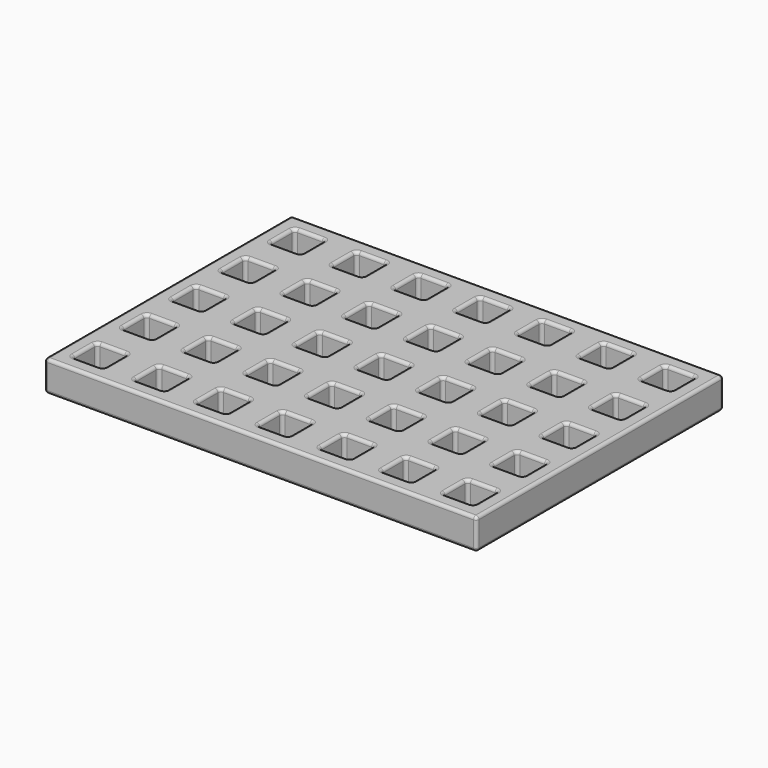
from build123d import *

# Parameters (mm, degrees)
F0_W     = 177.8
F0_H     = 127
F1_DEPTH = 12.7
F2_W     = 12.7
F2_H     = 12.7
F3_DEPTH = 25.4
F4_R     = 1.27


with BuildPart() as f1:
    # F0 (on Top) → F1 (new body)
    with BuildSketch(Plane.XY):
        Rectangle(F0_W, F0_H)
    extrude(amount=F1_DEPTH)

    # F2 (on face) → F3 (cut)
    with BuildSketch(Plane.XY.offset(12.7)):
        with Locations((-76.2, 50.8)):
            Rectangle(F2_W, F2_H)
        with Locations((-76.2, 25.4)):
            Rectangle(F2_W, F2_H)
        with Locations((-76.2, 0)):
            Rectangle(F2_W, F2_H)
        with Locations((-76.2, -25.4)):
            Rectangle(F2_W, F2_H)
        with Locations((-76.2, -50.8)):
            Rectangle(F2_W, F2_H)
        with Locations((-50.8, 50.8)):
            Rectangle(F2_W, F2_H)
        with Locations((-50.8, 25.4)):
            Rectangle(F2_W, F2_H)
        with Locations((-50.8, 0)):
            Rectangle(F2_W, F2_H)
        with Locations((-50.8, -25.4)):
            Rectangle(F2_W, F2_H)
        with Locations((-50.8, -50.8)):
            Rectangle(F2_W, F2_H)
        with Locations((-25.4, 50.8)):
            Rectangle(F2_W, F2_H)
        with Locations((-25.4, 25.4)):
            Rectangle(F2_W, F2_H)
        with Locations((-25.4, 0)):
            Rectangle(F2_W, F2_H)
        with Locations((-25.4, -25.4)):
            Rectangle(F2_W, F2_H)
        with Locations((-25.4, -50.8)):
            Rectangle(F2_W, F2_H)
        with Locations((0, 50.8)):
            Rectangle(F2_W, F2_H)
        with Locations((0, 25.4)):
            Rectangle(F2_W, F2_H)
        Rectangle(F2_W, F2_H)
        with Locations((0, -25.4)):
            Rectangle(F2_W, F2_H)
        with Locations((0, -50.8)):
            Rectangle(F2_W, F2_H)
        with Locations((25.4, 50.8)):
            Rectangle(F2_W, F2_H)
        with Locations((25.4, 25.4)):
            Rectangle(F2_W, F2_H)
        with Locations((25.4, 0)):
            Rectangle(F2_W, F2_H)
        with Locations((25.4, -25.4)):
            Rectangle(F2_W, F2_H)
        with Locations((25.4, -50.8)):
            Rectangle(F2_W, F2_H)
        with Locations((50.8, 50.8)):
            Rectangle(F2_W, F2_H)
        with Locations((50.8, 25.4)):
            Rectangle(F2_W, F2_H)
        with Locations((50.8, 0)):
            Rectangle(F2_W, F2_H)
        with Locations((50.8, -25.4)):
            Rectangle(F2_W, F2_H)
        with Locations((50.8, -50.8)):
            Rectangle(F2_W, F2_H)
        with Locations((76.2, 50.8)):
            Rectangle(F2_W, F2_H)
        with Locations((76.2, 25.4)):
            Rectangle(F2_W, F2_H)
        with Locations((76.2, 0)):
            Rectangle(F2_W, F2_H)
        with Locations((76.2, -25.4)):
            Rectangle(F2_W, F2_H)
        with Locations((76.2, -50.8)):
            Rectangle(F2_W, F2_H)
    extrude(amount=-F3_DEPTH, mode=Mode.SUBTRACT)

    # F4
    f4_edges = [f1.edges().sort_by_distance(p)[0] for p in [
        (57.15, -50.8, 12.7),
        (57.15, 50.8, 12.7),
        (44.45, -25.4, 12.7),
        (44.45, -31.75, 6.35),
        (44.45, -25.4, 0),
        (44.45, -19.05, 6.35),
        (-82.55, -50.8, 12.7),
        (-82.55, -57.15, 6.35),
        (-82.55, -50.8, 0),
        (-82.55, -44.45, 6.35),
        (76.2, -44.45, 12.7),
        (69.85, -44.45, 6.35),
        (76.2, -44.45, 0),
        (82.55, -44.45, 6.35),
        (76.2, 57.15, 12.7),
        (69.85, 57.15, 6.35),
        (76.2, 57.15, 0),
        (82.55, 57.15, 6.35),
        (0, -19.05, 12.7),
        (-6.35, -19.05, 6.35),
        (0, -19.05, 0),
        (6.35, -19.05, 6.35),
        (-25.4, -44.45, 12.7),
        (-31.75, -44.45, 6.35),
        (-25.4, -44.45, 0),
        (-19.05, -44.45, 6.35),
        (-76.2, -31.75, 12.7),
        (-82.55, 0, 12.7),
        (-6.35, -25.4, 12.7),
        (-31.75, -50.8, 12.7),
        (69.85, -50.8, 12.7),
        (69.85, 50.8, 12.7),
        (-57.15, -50.8, 12.7),
        (-57.15, -57.15, 6.35),
        (-57.15, -50.8, 0),
        (-57.15, -44.45, 6.35),
        (-31.75, -25.4, 12.7),
        (-31.75, -31.75, 6.35),
        (-31.75, -25.4, 0),
        (-31.75, -19.05, 6.35),
        (69.85, -25.4, 12.7),
        (69.85, -31.75, 6.35),
        (69.85, -25.4, 0),
        (69.85, -19.05, 6.35),
        (44.45, -50.8, 12.7),
        (44.45, -57.15, 6.35),
        (44.45, -50.8, 0),
        (44.45, -44.45, 6.35),
        (0, -57.15, 12.7),
        (-50.8, -6.35, 12.7),
        (76.2, 19.05, 12.7),
        (50.8, -6.35, 12.7),
        (-25.4, -57.15, 12.7),
        (-19.05, -57.15, 6.35),
        (-25.4, -57.15, 0),
        (-31.75, -57.15, 6.35),
        (76.2, -57.15, 12.7),
        (82.55, -57.15, 6.35),
        (76.2, -57.15, 0),
        (69.85, -57.15, 6.35),
        (76.2, 44.45, 12.7),
        (82.55, 44.45, 6.35),
        (76.2, 44.45, 0),
        (69.85, 44.45, 6.35),
        (-82.55, -25.4, 12.7),
        (-6.35, -50.8, 12.7),
        (69.85, 25.4, 12.7),
        (-6.35, -31.75, 6.35),
        (-6.35, -25.4, 0),
        (-31.75, -50.8, 0),
        (69.85, -50.8, 0),
        (69.85, 50.8, 0),
        (-19.05, -50.8, 12.7),
        (-19.05, -50.8, 0),
        (82.55, 50.8, 12.7),
        (82.55, 50.8, 0),
        (82.55, -50.8, 12.7),
        (82.55, -50.8, 0),
        (-76.2, -44.45, 12.7),
        (25.4, -44.45, 12.7),
        (25.4, -19.05, 12.7),
        (19.05, -19.05, 6.35),
        (25.4, -19.05, 0),
        (31.75, -19.05, 6.35),
        (0, -44.45, 12.7),
        (-6.35, -44.45, 6.35),
        (0, -44.45, 0),
        (6.35, -44.45, 6.35),
        (88.9, 0, 0),
        (0, -63.5, 0),
        (0, 63.5, 0),
        (-88.9, 0, 0),
        (-76.2, -44.45, 0),
        (-76.2, -57.15, 0),
        (-69.85, -50.8, 0),
        (-50.8, -44.45, 0),
        (-50.8, -57.15, 0),
        (-44.45, -50.8, 0),
        (-76.2, -19.05, 0),
        (-82.55, -25.4, 0),
        (-76.2, -31.75, 0),
        (-69.85, -25.4, 0),
        (-50.8, -19.05, 0),
        (-57.15, -25.4, 0),
        (-50.8, -31.75, 0),
        (-44.45, -25.4, 0),
        (-25.4, -19.05, 0),
        (-25.4, -31.75, 0),
        (-19.05, -25.4, 0),
        (-6.35, -50.8, 0),
        (0, -57.15, 0),
        (6.35, -50.8, 0),
        (25.4, -44.45, 0),
        (19.05, -50.8, 0),
        (25.4, -57.15, 0),
        (31.75, -50.8, 0),
        (50.8, -44.45, 0),
        (50.8, -57.15, 0),
        (57.15, -50.8, 0),
        (0, -31.75, 0),
        (6.35, -25.4, 0),
        (19.05, -25.4, 0),
        (25.4, -31.75, 0),
        (31.75, -25.4, 0),
        (50.8, -19.05, 0),
        (50.8, -31.75, 0),
        (57.15, -25.4, 0),
        (76.2, -19.05, 0),
        (76.2, -31.75, 0),
        (82.55, -25.4, 0),
        (-76.2, 6.35, 0),
        (-82.55, 0, 0),
        (-76.2, -6.35, 0),
        (-69.85, 0, 0),
        (-50.8, 6.35, 0),
        (-57.15, 0, 0),
        (-50.8, -6.35, 0),
        (-44.45, 0, 0),
        (-76.2, 31.75, 0),
        (-82.55, 25.4, 0),
        (-76.2, 19.05, 0),
        (-69.85, 25.4, 0),
        (-50.8, 31.75, 0),
        (-57.15, 25.4, 0),
        (-50.8, 19.05, 0),
        (-44.45, 25.4, 0),
        (-25.4, 6.35, 0),
        (-31.75, 0, 0),
        (-25.4, -6.35, 0),
        (-19.05, 0, 0),
        (-25.4, 31.75, 0),
        (-31.75, 25.4, 0),
        (-25.4, 19.05, 0),
        (-19.05, 25.4, 0),
        (-76.2, 57.15, 0),
        (-82.55, 50.8, 0),
        (-76.2, 44.45, 0),
        (-69.85, 50.8, 0),
        (-50.8, 57.15, 0),
        (-57.15, 50.8, 0),
        (-50.8, 44.45, 0),
        (-44.45, 50.8, 0),
        (-25.4, 57.15, 0),
        (-31.75, 50.8, 0),
        (-25.4, 44.45, 0),
        (-19.05, 50.8, 0),
        (0, 6.35, 0),
        (-6.35, 0, 0),
        (0, -6.35, 0),
        (6.35, 0, 0),
        (25.4, 6.35, 0),
        (19.05, 0, 0),
        (25.4, -6.35, 0),
        (31.75, 0, 0),
        (0, 31.75, 0),
        (-6.35, 25.4, 0),
        (0, 19.05, 0),
        (6.35, 25.4, 0),
        (25.4, 31.75, 0),
        (19.05, 25.4, 0),
        (25.4, 19.05, 0),
        (31.75, 25.4, 0),
        (50.8, 6.35, 0),
        (44.45, 0, 0),
        (50.8, -6.35, 0),
        (57.15, 0, 0),
        (76.2, 6.35, 0),
        (69.85, 0, 0),
        (76.2, -6.35, 0),
        (82.55, 0, 0),
        (50.8, 31.75, 0),
        (44.45, 25.4, 0),
        (50.8, 19.05, 0),
        (57.15, 25.4, 0),
        (76.2, 31.75, 0),
        (69.85, 25.4, 0),
        (76.2, 19.05, 0),
        (82.55, 25.4, 0),
        (0, 57.15, 0),
        (-6.35, 50.8, 0),
        (0, 44.45, 0),
        (6.35, 50.8, 0),
        (25.4, 57.15, 0),
        (19.05, 50.8, 0),
        (25.4, 44.45, 0),
        (31.75, 50.8, 0),
        (50.8, 57.15, 0),
        (44.45, 50.8, 0),
        (50.8, 44.45, 0),
        (57.15, 50.8, 0),
        (76.2, 31.75, 12.7),
        (69.85, 31.75, 6.35),
        (82.55, 31.75, 6.35),
        (6.35, -50.8, 12.7),
        (6.35, -57.15, 6.35),
        (82.55, 25.4, 12.7),
        (82.55, 19.05, 6.35),
        (31.75, -25.4, 12.7),
        (31.75, -31.75, 6.35),
        (76.2, -6.35, 12.7),
        (50.8, -31.75, 12.7),
        (-44.45, -6.35, 6.35),
        (-57.15, -6.35, 6.35),
        (69.85, 19.05, 6.35),
        (57.15, 57.15, 6.35),
        (57.15, 44.45, 6.35),
        (88.9, 0, 12.7),
        (0, -63.5, 12.7),
        (0, 63.5, 12.7),
        (-88.9, 0, 12.7),
        (-76.2, -57.15, 12.7),
        (-69.85, -50.8, 12.7),
        (-50.8, -44.45, 12.7),
        (-50.8, -57.15, 12.7),
        (-44.45, -50.8, 12.7),
        (-76.2, -19.05, 12.7),
        (-69.85, -25.4, 12.7),
        (-50.8, -19.05, 12.7),
        (-57.15, -25.4, 12.7),
        (-50.8, -31.75, 12.7),
        (-44.45, -25.4, 12.7),
        (-25.4, -19.05, 12.7),
        (-25.4, -31.75, 12.7),
        (-19.05, -25.4, 12.7),
        (19.05, -50.8, 12.7),
        (25.4, -57.15, 12.7),
        (31.75, -50.8, 12.7),
        (50.8, -44.45, 12.7),
        (50.8, -57.15, 12.7),
        (0, -31.75, 12.7),
        (6.35, -25.4, 12.7),
        (19.05, -25.4, 12.7),
        (25.4, -31.75, 12.7),
        (50.8, -19.05, 12.7),
        (57.15, -25.4, 12.7),
        (76.2, -19.05, 12.7),
        (76.2, -31.75, 12.7),
        (82.55, -25.4, 12.7),
        (-76.2, 6.35, 12.7),
        (-76.2, -6.35, 12.7),
        (-69.85, 0, 12.7),
        (-50.8, 6.35, 12.7),
        (-57.15, 0, 12.7),
        (-44.45, 0, 12.7),
        (-76.2, 31.75, 12.7),
        (-82.55, 25.4, 12.7),
        (-76.2, 19.05, 12.7),
        (-69.85, 25.4, 12.7),
        (-50.8, 31.75, 12.7),
        (-57.15, 25.4, 12.7),
        (-50.8, 19.05, 12.7),
        (-44.45, 25.4, 12.7),
        (-25.4, 6.35, 12.7),
        (-31.75, 0, 12.7),
        (-25.4, -6.35, 12.7),
        (-19.05, 0, 12.7),
        (-25.4, 31.75, 12.7),
        (-31.75, 25.4, 12.7),
        (-25.4, 19.05, 12.7),
        (-19.05, 25.4, 12.7),
        (-76.2, 57.15, 12.7),
        (-82.55, 50.8, 12.7),
        (-76.2, 44.45, 12.7),
        (-69.85, 50.8, 12.7),
        (-50.8, 57.15, 12.7),
        (-57.15, 50.8, 12.7),
        (-50.8, 44.45, 12.7),
        (-44.45, 50.8, 12.7),
        (-25.4, 57.15, 12.7),
        (-31.75, 50.8, 12.7),
        (-25.4, 44.45, 12.7),
        (-19.05, 50.8, 12.7),
        (0, 6.35, 12.7),
        (-6.35, 0, 12.7),
        (0, -6.35, 12.7),
        (6.35, 0, 12.7),
        (25.4, 6.35, 12.7),
        (19.05, 0, 12.7),
        (25.4, -6.35, 12.7),
        (31.75, 0, 12.7),
        (0, 31.75, 12.7),
        (-6.35, 25.4, 12.7),
        (0, 19.05, 12.7),
        (6.35, 25.4, 12.7),
        (25.4, 31.75, 12.7),
        (19.05, 25.4, 12.7),
        (25.4, 19.05, 12.7),
        (31.75, 25.4, 12.7),
        (50.8, 6.35, 12.7),
        (44.45, 0, 12.7),
        (57.15, 0, 12.7),
        (76.2, 6.35, 12.7),
        (69.85, 0, 12.7),
        (82.55, 0, 12.7),
        (50.8, 31.75, 12.7),
        (44.45, 25.4, 12.7),
        (50.8, 19.05, 12.7),
        (57.15, 25.4, 12.7),
        (0, 57.15, 12.7),
        (-6.35, 50.8, 12.7),
        (0, 44.45, 12.7),
        (6.35, 50.8, 12.7),
        (25.4, 57.15, 12.7),
        (19.05, 50.8, 12.7),
        (25.4, 44.45, 12.7),
        (31.75, 50.8, 12.7),
        (50.8, 57.15, 12.7),
        (44.45, 50.8, 12.7),
        (50.8, 44.45, 12.7),
        (-19.05, -19.05, 6.35),
        (-19.05, -31.75, 6.35),
        (82.55, -19.05, 6.35),
        (82.55, -31.75, 6.35),
        (57.15, -44.45, 6.35),
        (57.15, -57.15, 6.35),
        (-6.35, -57.15, 6.35),
        (-44.45, -44.45, 6.35),
        (-44.45, -57.15, 6.35),
        (-57.15, -19.05, 6.35),
        (-44.45, -19.05, 6.35),
        (-69.85, -44.45, 6.35),
        (69.85, 6.35, 6.35),
        (82.55, 6.35, 6.35),
        (19.05, -44.45, 6.35),
        (31.75, -44.45, 6.35),
        (57.15, -19.05, 6.35),
        (-19.05, -6.35, 6.35),
        (-31.75, -6.35, 6.35),
        (-44.45, -31.75, 6.35),
        (-57.15, -31.75, 6.35),
        (82.55, -6.35, 6.35),
        (69.85, -6.35, 6.35),
        (19.05, -57.15, 6.35),
        (88.9, 63.5, 6.35),
        (-88.9, 63.5, 6.35),
        (-88.9, -63.5, 6.35),
        (88.9, -63.5, 6.35),
        (-19.05, 6.35, 6.35),
        (-69.85, -57.15, 6.35),
        (57.15, -31.75, 6.35),
        (31.75, -57.15, 6.35),
        (-69.85, -19.05, 6.35),
        (-69.85, -31.75, 6.35),
        (-82.55, -31.75, 6.35),
        (-82.55, -19.05, 6.35),
        (44.45, 57.15, 6.35),
        (-69.85, -6.35, 6.35),
        (-82.55, -6.35, 6.35),
        (-82.55, 6.35, 6.35),
        (44.45, 44.45, 6.35),
        (-31.75, 57.15, 6.35),
        (-19.05, 57.15, 6.35),
        (-57.15, 31.75, 6.35),
        (-44.45, 31.75, 6.35),
        (44.45, 31.75, 6.35),
        (57.15, 31.75, 6.35),
        (19.05, 6.35, 6.35),
        (31.75, 6.35, 6.35),
        (-57.15, 44.45, 6.35),
        (-57.15, 57.15, 6.35),
        (19.05, 19.05, 6.35),
        (19.05, 31.75, 6.35),
        (-6.35, -6.35, 6.35),
        (-6.35, 6.35, 6.35),
        (-19.05, 44.45, 6.35),
        (-31.75, 44.45, 6.35),
        (-44.45, 19.05, 6.35),
        (-57.15, 19.05, 6.35),
        (57.15, 19.05, 6.35),
        (44.45, 19.05, 6.35),
        (31.75, -6.35, 6.35),
        (19.05, -6.35, 6.35),
        (6.35, -31.75, 6.35),
        (-31.75, 31.75, 6.35),
        (-19.05, 31.75, 6.35),
        (44.45, 6.35, 6.35),
        (57.15, 6.35, 6.35),
        (-57.15, 6.35, 6.35),
        (-44.45, 6.35, 6.35),
        (-6.35, 57.15, 6.35),
        (6.35, 57.15, 6.35),
        (6.35, 44.45, 6.35),
        (-19.05, 19.05, 6.35),
        (57.15, -6.35, 6.35),
        (-6.35, 44.45, 6.35),
        (-31.75, 19.05, 6.35),
        (44.45, -6.35, 6.35),
        (19.05, -31.75, 6.35),
        (31.75, 31.75, 6.35),
        (31.75, 19.05, 6.35),
        (6.35, 6.35, 6.35),
        (6.35, -6.35, 6.35),
        (-44.45, 57.15, 6.35),
        (-44.45, 44.45, 6.35),
        (-6.35, 31.75, 6.35),
        (6.35, 31.75, 6.35),
        (-31.75, 6.35, 6.35),
        (19.05, 57.15, 6.35),
        (31.75, 57.15, 6.35),
        (6.35, 19.05, 6.35),
        (-6.35, 19.05, 6.35),
        (31.75, 44.45, 6.35),
        (19.05, 44.45, 6.35),
        (-82.55, 57.15, 6.35),
        (-69.85, 57.15, 6.35),
        (-69.85, 44.45, 6.35),
        (-82.55, 44.45, 6.35),
        (-82.55, 31.75, 6.35),
        (-69.85, 31.75, 6.35),
        (-69.85, 19.05, 6.35),
        (-82.55, 19.05, 6.35),
        (-69.85, 6.35, 6.35),
    ]]
    fillet(f4_edges, radius=F4_R)


solid = f1.part
